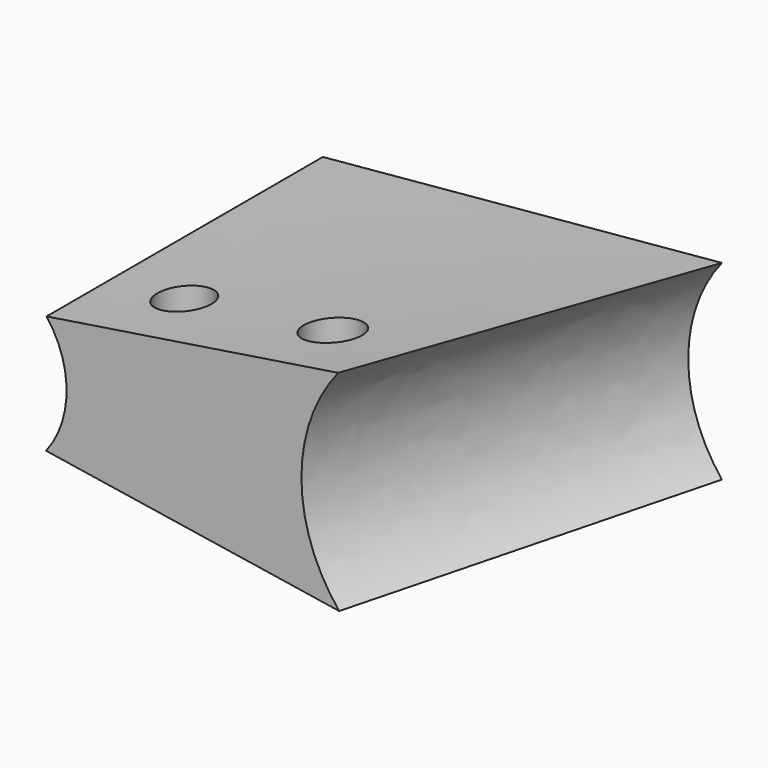
from build123d import *

# Parameters (mm, degrees)
F1_W          = 5.870015
F1_H          = 6.290437
F2_DEPTH      = 25
F5_R          = 1.924838
F5_R_2        = 2
F6_DEPTH      = 10
F6_DEPTH_BACK = 10


with BuildPart() as f2:
    # F1 (on Front) → F2 (new body)
    with BuildSketch(Plane.XZ):
        with Locations((-3.029539, -0.13159)):
            Rectangle(F1_W, F1_H)
    extrude(amount=F2_DEPTH)

    # F0 (on Front) → F4 section 0
    with BuildSketch(Plane.XZ):
        with BuildLine():
            ThreePointArc((-15.948061, 4.263329), (-14.5, 0), (-15.948061, -4.263329))
            Line((-15.948061, -4.263329), (12.936951, -6.90465))
            ThreePointArc((12.936951, -6.90465), (10.5, 0), (12.936951, 6.90465))
            Line((12.936951, 6.90465), (-15.948061, 4.263329))
        make_face()
    # F3 (on face) → F4 section 1
    with BuildSketch(Plane.XZ.offset(25)):
        with BuildLine():
            ThreePointArc((-15.948061, 4.263329), (-14.500061, -0.029295), (-15.983939, -4.309649))
            Line((-15.983939, -4.309649), (5.2341, -7.625162))
            ThreePointArc((5.2341, -7.625162), (2.500149, -0.059857), (5.158492, 7.532345))
            Line((5.158492, 7.532345), (-15.948061, 4.263329))
        make_face()
    loft()

    # F5 (on Top) → F6 (cut, two sides)
    with BuildSketch(Plane.XY) as f6_sk:
        with Locations((-10.290117, -19.614996)):
            Circle(F5_R)
        with Locations((0.45808, -19.614996)):
            Circle(F5_R_2)
    extrude(amount=F6_DEPTH, mode=Mode.SUBTRACT)
    extrude(f6_sk.sketch, amount=-F6_DEPTH_BACK, mode=Mode.SUBTRACT)


solid = f2.part
